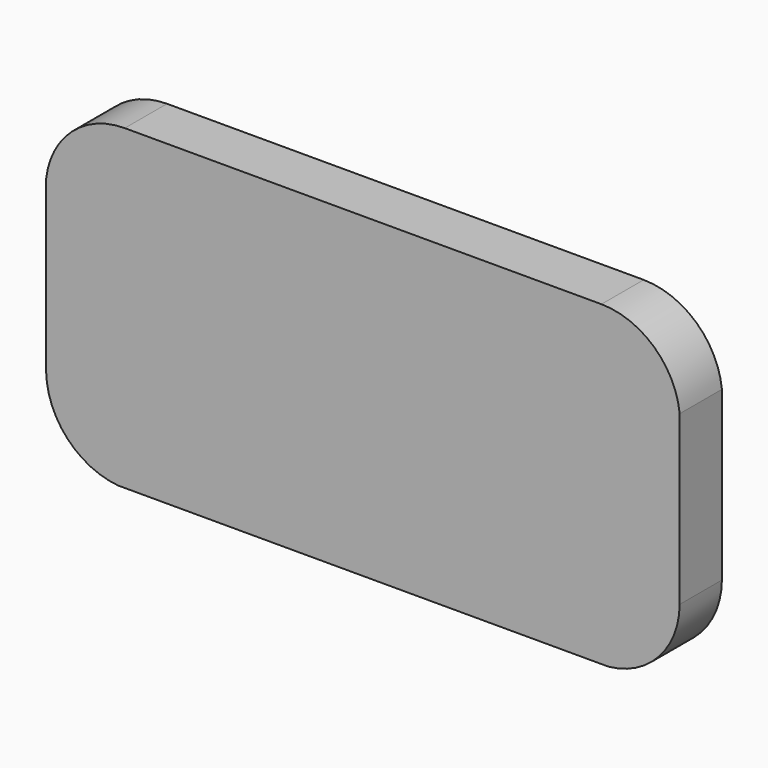
from build123d import *

# Parameters (mm, degrees)
F1_DEPTH = 25.4


with BuildPart() as f1:
    # F0 (on Front) → F1 (new body)
    with BuildSketch(Plane.XZ):
        with BuildLine():
            Line((108.37895, 77.915826), (-120.920094, 77.915826))
            ThreePointArc((-120.920094, 77.915826), (-146.320094, 68.213889), (-158.784179, 44.049159))
            Line((-158.784179, 44.049159), (-158.784179, -35.693267))
            Line((-158.784179, -35.693267), (-158.784179, -37.378213))
            ThreePointArc((-158.784179, -37.378213), (-148.522966, -62.557472), (-124.088536, -74.484174))
            Line((-124.088536, -74.484174), (-117.298453, -74.484174))
            Line((-117.298453, -74.484174), (104.0908, -74.484174))
            Line((104.0908, -74.484174), (111.74522, -74.484174))
            ThreePointArc((111.74522, -74.484174), (136.042169, -62.279838), (146.015821, -36.985296))
            Line((146.015821, -36.985296), (146.015821, 35.836525))
            Line((146.015821, 35.836525), (146.015821, 43.796829))
            ThreePointArc((146.015821, 43.796829), (133.713534, 68.04433), (108.37895, 77.915826))
        make_face()
    extrude(amount=F1_DEPTH)


solid = f1.part
